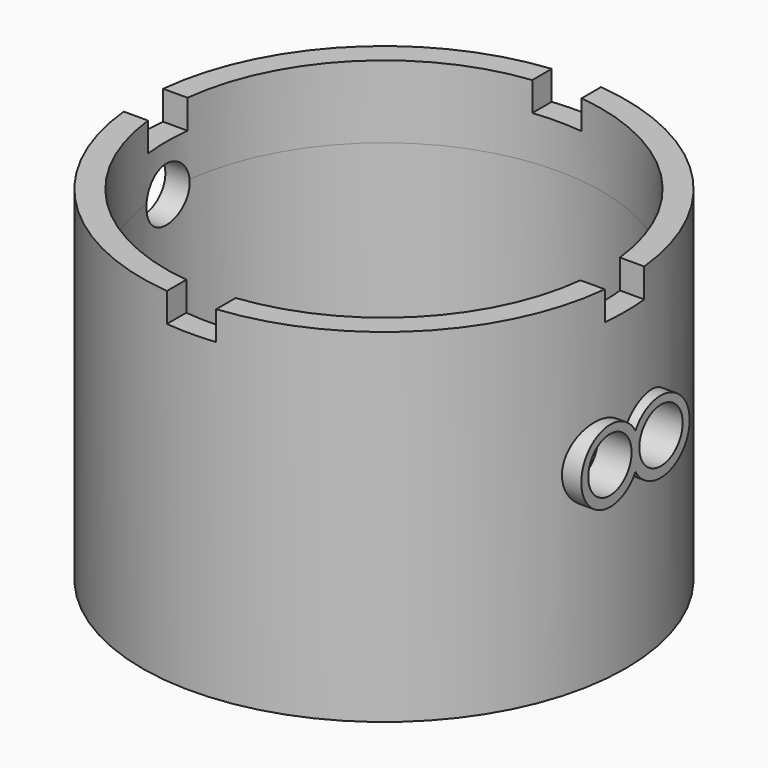
from build123d import *

# Parameters (mm, degrees)
F0_R      = 50
F1_DEPTH  = 71
F2_R      = 45
F3_DEPTH  = 65
F4_W      = 10.2
F4_H      = 6
F5_DEPTH  = 50
F6_W      = 10.2
F6_H      = 6
F7_DEPTH  = 50
F8_W      = 10.2
F8_H      = 6
F9_DEPTH  = 50
F10_W     = 10.2
F10_H     = 6
F11_DEPTH = 50
F12_R     = 5.6
F13_DEPTH = 55
F14_R     = 5.6
F15_DEPTH = 56
F17_DEPTH = 52
F18_DEPTH = 55
F19_R     = 45
F20_DEPTH = 50


with BuildPart() as f1:
    # F0 (on Top) → F1 (new body)
    with BuildSketch(Plane.XY):
        Circle(F0_R)
    extrude(amount=F1_DEPTH)

    # F2 (on face) → F3 (cut)
    with BuildSketch(Plane.XY.offset(71)):
        Circle(F2_R)
    extrude(amount=-F3_DEPTH, mode=Mode.SUBTRACT)

    # F4 (on Front) → F5 (cut)
    with BuildSketch(Plane.XZ):
        with Locations((0, 68)):
            Rectangle(F4_W, F4_H)
    extrude(amount=-F5_DEPTH, mode=Mode.SUBTRACT)

    # F6 (on Front) → F7 (cut)
    with BuildSketch(Plane.XZ):
        with Locations((0, 68)):
            Rectangle(F6_W, F6_H)
    extrude(amount=F7_DEPTH, mode=Mode.SUBTRACT)

    # F8 (on Right) → F9 (cut)
    with BuildSketch(Plane.YZ):
        with Locations((0, 68)):
            Rectangle(F8_W, F8_H)
    extrude(amount=-F9_DEPTH, mode=Mode.SUBTRACT)

    # F10 (on Right) → F11 (cut)
    with BuildSketch(Plane.YZ):
        with Locations((0, 68)):
            Rectangle(F10_W, F10_H)
    extrude(amount=F11_DEPTH, mode=Mode.SUBTRACT)

    # F12 (on Right) → F13 (cut)
    with BuildSketch(Plane.YZ):
        with Locations((0, 55.4)):
            Circle(F12_R)
    extrude(amount=-F13_DEPTH, mode=Mode.SUBTRACT)

    # F14 (on Right) → F15 (cut)
    with BuildSketch(Plane.YZ):
        with Locations((-6.6, 40.4)):
            Circle(F14_R)
        with Locations((6.6, 40.4)):
            Circle(F14_R)
    extrude(amount=F15_DEPTH, mode=Mode.SUBTRACT)

    # F16 (on Right) → F17 (join)
    with BuildSketch(Plane.YZ):
        with BuildLine():
            ThreePointArc((2.6579e-05, 36.4390160432), (0.7456952511, 38.2441613187), (1, 40.1806272566))
            ThreePointArc((1, 40.1806272566), (0.7456814951, 42.1171446646), (-2.6579e-05, 43.922330816))
            ThreePointArc((-2.6579e-05, 43.922330816), (-0.9999999998, 40.1806663261), (2.6579e-05, 36.4390160432))
        make_face()
        with BuildLine():
            ThreePointArc((-2.6579e-05, 43.922330816), (0.7456814951, 42.1171446646), (1, 40.1806272566))
            ThreePointArc((1, 40.1806272566), (0.7456952511, 38.2441613187), (2.6579e-05, 36.4390160432))
            ThreePointArc((2.6579e-05, 36.4390160432), (8.4365174079, 32.9350381074), (14, 40.1807196026))
            ThreePointArc((14, 40.1807196026), (8.4364659379, 47.4264148536), (-2.6579e-05, 43.922330816))
        make_face()
        with BuildLine():
            ThreePointArc((2.6579e-05, 36.4390160432), (-0.9999999998, 40.1806663261), (-2.6579e-05, 43.922330816))
            ThreePointArc((-2.6579e-05, 43.922330816), (-13.9999999998, 40.1805739801), (2.6579e-05, 36.4390160432))
        make_face()
    extrude(amount=F17_DEPTH)

    # F14 (on Right) → F18 (cut)
    with BuildSketch(Plane.YZ):
        with Locations((-6.6, 40.4)):
            Circle(F14_R)
        with Locations((6.6, 40.4)):
            Circle(F14_R)
    extrude(amount=F18_DEPTH, mode=Mode.SUBTRACT)

    # F19 (on face) → F20 (cut)
    with BuildSketch(Plane.XY.offset(6)):
        Circle(F19_R)
    extrude(amount=F20_DEPTH, mode=Mode.SUBTRACT)


solid = f1.part
